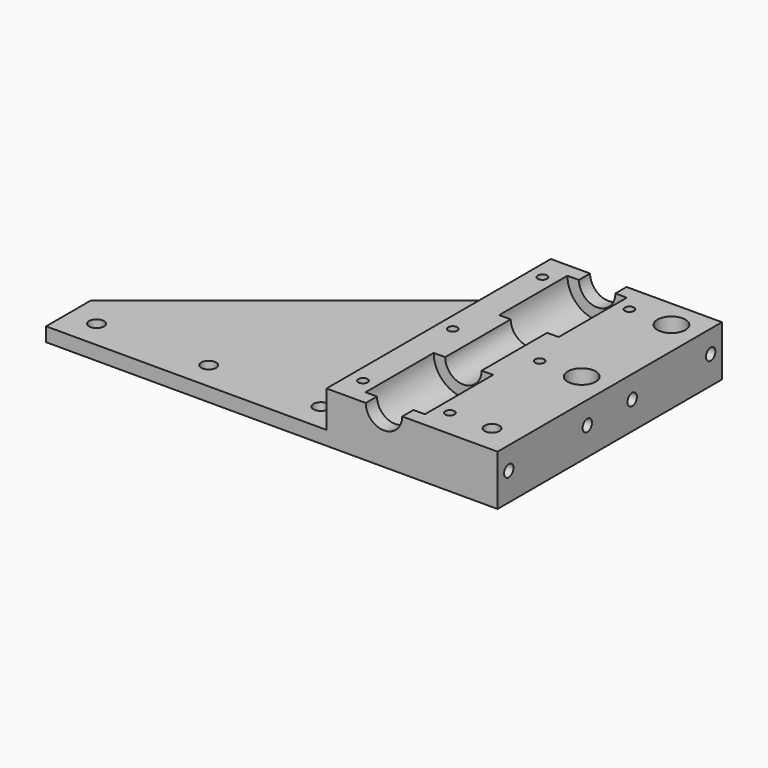
from build123d import *

# Parameters (mm, degrees)
PAD_DEPTH       = 50
POCKET_DEPTH    = 18.001
SKETCH003_R     = 10.6
POCKET001_DEPTH = 30.4
SKETCH004_R     = 10.6
POCKET002_DEPTH = 30.4
SKETCH005_R     = 1.65
SKETCH005_R_2   = 2.65
POCKET007_DEPTH = 18.001
POCKET008_DEPTH = 5
SKETCH006_R     = 2.65
POCKET009_DEPTH = 18.001
SKETCH007_R     = 5
POCKET010_DEPTH = 13
SKETCH008_R     = 2.1
POCKET011_DEPTH = 20


with BuildPart() as part:
    # Sketch001 → Pad (new body, symmetric)
    with BuildSketch(Plane.XZ):
        with BuildLine():
            Line((-20.5, 0), (-6.5, 0))
            ThreePointArc((-6.5, 0), (0, -6.5), (6.5, 0))
            Line((6.5, 0), (20.5, 0))
            Line((20.5, 0), (40.5, 0))
            Line((40.5, 0), (40.5, -18))
            Line((40.5, -18), (20.5, -18))
            Line((20.5, -18), (-120.5, -18))
            Line((-120.5, -18), (-120.5, -13))
            Line((-20.5, -13), (-120.5, -13))
            Line((-20.5, 0), (-20.5, -13))
        make_face()
    extrude(amount=PAD_DEPTH, both=True)

    # Sketch002 → Pocket (cut, through all)
    with BuildSketch(Plane.XY):
        Polygon((-20.5, 50), (-120.5, 50), (-120.5, -30), align=None)
    extrude(amount=-POCKET_DEPTH, mode=Mode.SUBTRACT)

    # Sketch003 (on DatumPlane) → Pocket001 (cut)
    with BuildSketch(Plane.XZ.offset(45)):
        Circle(SKETCH003_R)
    extrude(amount=-POCKET001_DEPTH, mode=Mode.SUBTRACT)

    # Sketch004 (on DatumPlane) → Pocket002 (cut)
    with BuildSketch(Plane.XZ.offset(-45)):
        Circle(SKETCH004_R)
    extrude(amount=POCKET002_DEPTH, mode=Mode.SUBTRACT)

    # Sketch005 → Pocket007 (cut, through all)
    with BuildSketch(Plane.XY):
        with Locations((-15.5, -40)):
            Circle(SKETCH005_R)
        with Locations((15.5, -40)):
            Circle(SKETCH005_R)
        with Locations((15.5, 0)):
            Circle(SKETCH005_R)
        with Locations((15.5, 40)):
            Circle(SKETCH005_R)
        with Locations((-15.5, 40)):
            Circle(SKETCH005_R)
        with Locations((-15.5, 0)):
            Circle(SKETCH005_R)
        with Locations((-110.5, -40)):
            Circle(SKETCH005_R_2)
        with Locations((-70.5, -40)):
            Circle(SKETCH005_R_2)
        with Locations((-30.5, -40)):
            Circle(SKETCH005_R_2)
    extrude(amount=-POCKET007_DEPTH, mode=Mode.SUBTRACT)

    # Sketch (on DatumPlane) → Pocket008 (cut)
    with BuildSketch(Plane.XY.offset(-18)):
        Polygon((-12.75, 38.412287), (-12.75, 41.587713), (-15.5, 43.175426), (-18.25, 41.587713), (-18.25, 38.412287), (-15.5, 36.824574), align=None)
        Polygon((18.25, 38.412287), (18.25, 41.587713), (15.5, 43.175426), (12.75, 41.587713), (12.75, 38.412287), (15.5, 36.824574), align=None)
        Polygon((-12.75, -1.587713), (-12.75, 1.587713), (-15.5, 3.175426), (-18.25, 1.587713), (-18.25, -1.587713), (-15.5, -3.175426), align=None)
        Polygon((18.25, -1.587713), (18.25, 1.587713), (15.5, 3.175426), (12.75, 1.587713), (12.75, -1.587713), (15.5, -3.175426), align=None)
        Polygon((-12.75, -41.587713), (-12.75, -38.412287), (-15.5, -36.824574), (-18.25, -38.412287), (-18.25, -41.587713), (-15.5, -43.175426), align=None)
        Polygon((18.25, -41.587713), (18.25, -38.412287), (15.5, -36.824574), (12.75, -38.412287), (12.75, -41.587713), (15.5, -43.175426), align=None)
    extrude(amount=POCKET008_DEPTH, mode=Mode.SUBTRACT)

    # Sketch006 → Pocket009 (cut, through all)
    with BuildSketch(Plane.XY):
        with Locations((30.5, 40)):
            Circle(SKETCH006_R)
        with Locations((30.5, 0)):
            Circle(SKETCH006_R)
        with Locations((30.5, -40)):
            Circle(SKETCH006_R)
    extrude(amount=-POCKET009_DEPTH, mode=Mode.SUBTRACT)

    # Sketch007 → Pocket010 (cut)
    with BuildSketch(Plane.XY):
        with Locations((30.5, 40)):
            Circle(SKETCH007_R)
        with Locations((30.5, 0)):
            Circle(SKETCH007_R)
    extrude(amount=-POCKET010_DEPTH, mode=Mode.SUBTRACT)

    # Sketch008 (on DatumPlane) → Pocket011 (cut)
    with BuildSketch(Plane.YZ.offset(41)):
        with Locations((-45, -8)):
            Circle(SKETCH008_R)
        with Locations((-10, -8)):
            Circle(SKETCH008_R)
        with Locations((10, -8)):
            Circle(SKETCH008_R)
        with Locations((45, -8)):
            Circle(SKETCH008_R)
    extrude(amount=-POCKET011_DEPTH, mode=Mode.SUBTRACT)


solid = part.part
